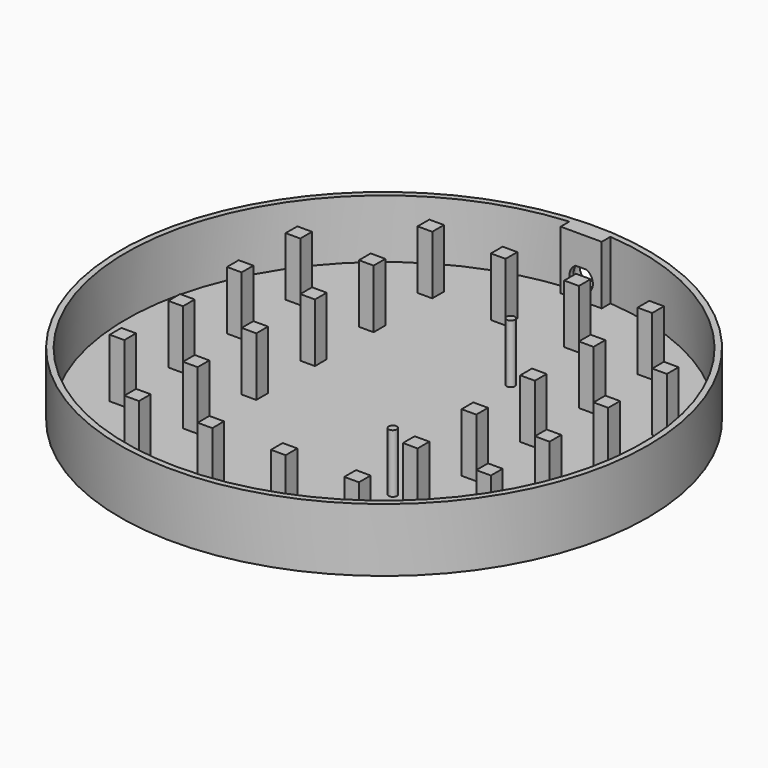
from build123d import *

# Parameters (mm, degrees)
SKETCH_R        = 90
PAD_DEPTH       = 1.6
SKETCH001_R     = 90
SKETCH001_R_2   = 88
PAD001_DEPTH    = 20
SKETCH006_R     = 5.2
POCKET_DEPTH    = 6
PAD006_DEPTH    = 20
POCKET001_DEPTH = 8
SKETCH008_R     = 5.2
PAD007_DEPTH    = 1.8
SKETCH057_R     = 1.396673
SKETCH057_R_2   = 1.389292
SKETCH057_W     = 5
SKETCH057_H     = 5
PAD037_DEPTH    = 20


with BuildPart() as part:
    # Sketch → Pad (new body)
    with BuildSketch(Plane.XY):
        Circle(SKETCH_R)
    extrude(amount=PAD_DEPTH)

    # Sketch001 (on Face3 of Pad) → Pad001 (join)
    with BuildSketch(Plane.XY.offset(1.6)):
        Circle(SKETCH001_R)
        Circle(SKETCH001_R_2, mode=Mode.SUBTRACT)
    extrude(amount=PAD001_DEPTH)

    # Sketch006 (on Face2 of ShapeBinder) → Pocket (cut)
    with BuildSketch(Plane(origin=(0, 90, 8), x_dir=(1, 0, 0), z_dir=(0, 1, 0))):
        Circle(SKETCH006_R)
    extrude(amount=-POCKET_DEPTH, mode=Mode.SUBTRACT)

    # Sketch007 (on Face7 of Pocket) → Pad006 (join)
    with BuildSketch(Plane.XY.offset(1.6)):
        with BuildLine():
            ThreePointArc((7, 87.721149), (0, 88), (-7, 87.721149))
            Line((-7, 87.721149), (-7, 84))
            Line((-7, 84), (7, 84))
            Line((7, 84), (7, 87.721149))
        make_face()
    extrude(amount=PAD006_DEPTH)

    # Sketch006 (on Face2 of ShapeBinder) → Pocket001 (cut)
    with BuildSketch(Plane(origin=(0, 90, 8), x_dir=(1, 0, 0), z_dir=(0, 1, 0))):
        Circle(SKETCH006_R)
    extrude(amount=-POCKET001_DEPTH, mode=Mode.SUBTRACT)

    # Sketch008 (on Face13 of Pocket001) → Pad007 (join)
    with BuildSketch(Plane.XZ.offset(-84)):
        with Locations((0, 8)):
            Circle(SKETCH008_R)
        with BuildLine():
            ThreePointArc((1.843231, 4.45), (4, 8), (1.843231, 11.55))
            Line((-1.843231, 11.55), (1.843231, 11.55))
            ThreePointArc((-1.843231, 11.55), (-4, 8), (-1.843231, 4.45))
            Line((-1.843231, 4.45), (1.843231, 4.45))
        make_face(mode=Mode.SUBTRACT)
    extrude(amount=-PAD007_DEPTH)

    # Sketch057 (on Face10 of Pad007) → Pad037 (join)
    with BuildSketch(Plane.XY.offset(1.6)):
        with Locations((15.604022, 34.492405)):
            Circle(SKETCH057_R)
        with Locations((30.599703, -34.504681)):
            Circle(SKETCH057_R_2)
        with Locations((-34.349093, -62.155302)):
            Rectangle(SKETCH057_W, SKETCH057_H)
        with Locations((-9.349093, -62.155302)):
            Rectangle(SKETCH057_W, SKETCH057_H)
        with Locations((15.650907, -62.155302)):
            Rectangle(SKETCH057_W, SKETCH057_H)
        with Locations((40.650907, -62.155302)):
            Rectangle(SKETCH057_W, SKETCH057_H)
        with Locations((-59.349093, -37.155302)):
            Rectangle(SKETCH057_W, SKETCH057_H)
        with Locations((-34.349093, -37.155302)):
            Rectangle(SKETCH057_W, SKETCH057_H)
        with Locations((40.650907, -37.155302)):
            Rectangle(SKETCH057_W, SKETCH057_H)
        with Locations((65.650907, -37.155302)):
            Rectangle(SKETCH057_W, SKETCH057_H)
        with Locations((-59.349093, -12.155302)):
            Rectangle(SKETCH057_W, SKETCH057_H)
        with Locations((-34.349093, -12.155302)):
            Rectangle(SKETCH057_W, SKETCH057_H)
        with Locations((40.650907, -12.155302)):
            Rectangle(SKETCH057_W, SKETCH057_H)
        with Locations((65.650907, -12.155302)):
            Rectangle(SKETCH057_W, SKETCH057_H)
        with Locations((-59.349093, 12.844698)):
            Rectangle(SKETCH057_W, SKETCH057_H)
        with Locations((-34.349093, 12.844698)):
            Rectangle(SKETCH057_W, SKETCH057_H)
        with Locations((40.650907, 12.844698)):
            Rectangle(SKETCH057_W, SKETCH057_H)
        with Locations((65.650907, 12.844698)):
            Rectangle(SKETCH057_W, SKETCH057_H)
        with Locations((-59.349093, 37.844698)):
            Rectangle(SKETCH057_W, SKETCH057_H)
        with Locations((-34.349093, 37.844698)):
            Rectangle(SKETCH057_W, SKETCH057_H)
        with Locations((40.650907, 37.844698)):
            Rectangle(SKETCH057_W, SKETCH057_H)
        with Locations((65.650907, 37.844698)):
            Rectangle(SKETCH057_W, SKETCH057_H)
        with Locations((-34.349093, 62.844698)):
            Rectangle(SKETCH057_W, SKETCH057_H)
        with Locations((-9.349093, 62.844698)):
            Rectangle(SKETCH057_W, SKETCH057_H)
        with Locations((15.650907, 62.844698)):
            Rectangle(SKETCH057_W, SKETCH057_H)
        with Locations((40.650907, 62.844698)):
            Rectangle(SKETCH057_W, SKETCH057_H)
    extrude(amount=PAD037_DEPTH)


solid = part.part
